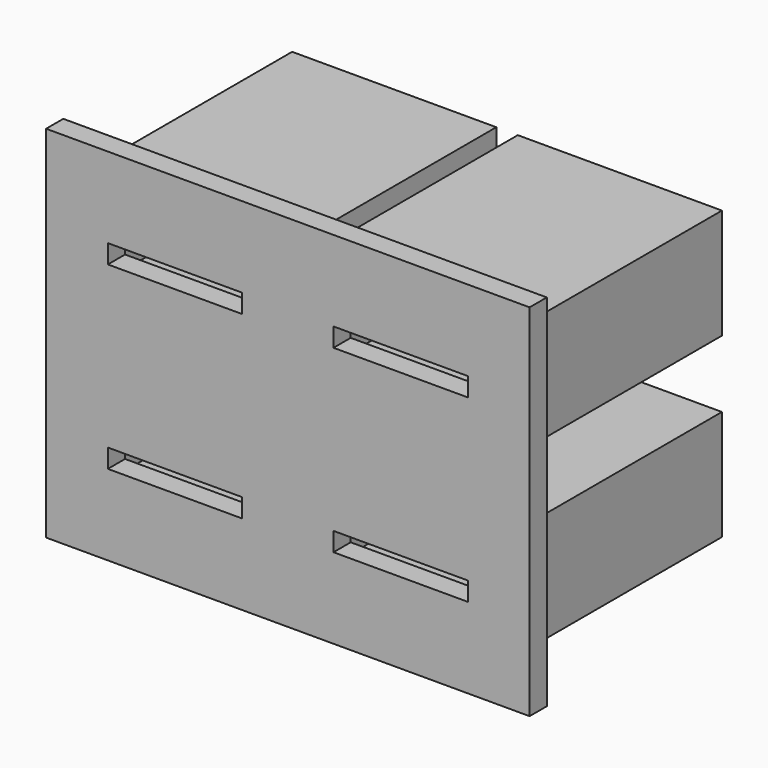
from build123d import *

# Parameters (mm, degrees)
F0_W     = 25.4
F0_H     = 22.86
F1_DEPTH = 1.016
F2_W     = 6.35
F2_H     = 0.889
F3_DEPTH = 25.4
F4_W     = 9.652
F4_H     = 5.207
F4_W_2   = 7.62
F4_H_2   = 3.175
F5_DEPTH = 12.954
F6_W     = 25.4
F6_H     = 2.794
F6_H_2   = 3.048
F7_DEPTH = 12.955
F8_W     = 2.54
F8_H     = 17.018
F9_DEPTH = 25.4


with BuildPart() as f1:
    # F0 (on Front) → F1 (new body)
    with BuildSketch(Plane.XZ):
        with Locations((-10.134171, 23.561226)):
            Rectangle(F0_W, F0_H)
    extrude(amount=-F1_DEPTH)

    # F2 (on face) → F3 (cut)
    with BuildSketch(Plane.XZ):
        with Locations((-14.198171, 27.688726)):
            Rectangle(F2_W, F2_H)
        with Locations((-3.530171, 27.688726)):
            Rectangle(F2_W, F2_H)
        with Locations((-14.198171, 19.179726)):
            Rectangle(F2_W, F2_H)
        with Locations((-3.530171, 19.179726)):
            Rectangle(F2_W, F2_H)
    extrude(amount=-F3_DEPTH, mode=Mode.SUBTRACT)

    # F4 (on face) → F5 (join)
    with BuildSketch(Plane.XZ):
        with Locations((-14.198171, 27.688726)):
            Rectangle(F4_W, F4_H)
        with Locations((-14.198171, 27.688726)):
            Rectangle(F4_W_2, F4_H_2, mode=Mode.SUBTRACT)
        with Locations((-3.530171, 27.688726)):
            Rectangle(F4_W, F4_H)
        with Locations((-3.530171, 27.688726)):
            Rectangle(F4_W_2, F4_H_2, mode=Mode.SUBTRACT)
        with Locations((-14.198171, 19.306726)):
            Rectangle(F4_W, F4_H)
        with Locations((-14.198171, 19.306726)):
            Rectangle(F4_W_2, F4_H_2, mode=Mode.SUBTRACT)
        with Locations((-3.530171, 19.306726)):
            Rectangle(F4_W, F4_H)
        with Locations((-3.530171, 19.306726)):
            Rectangle(F4_W_2, F4_H_2, mode=Mode.SUBTRACT)
    extrude(amount=-F5_DEPTH)

    # F6 (on face) → F7 (cut, through all)
    with BuildSketch(Plane.XZ):
        with Locations((-10.134171, 13.528226)):
            Rectangle(F6_W, F6_H)
        with Locations((-10.134171, 33.467226)):
            Rectangle(F6_W, F6_H_2)
    extrude(amount=-F7_DEPTH, mode=Mode.SUBTRACT)

    # F8 (on face) → F9 (cut)
    with BuildSketch(Plane.XZ):
        with Locations((-21.564171, 23.434226)):
            Rectangle(F8_W, F8_H)
    extrude(amount=-F9_DEPTH, mode=Mode.SUBTRACT)


solid = f1.part
